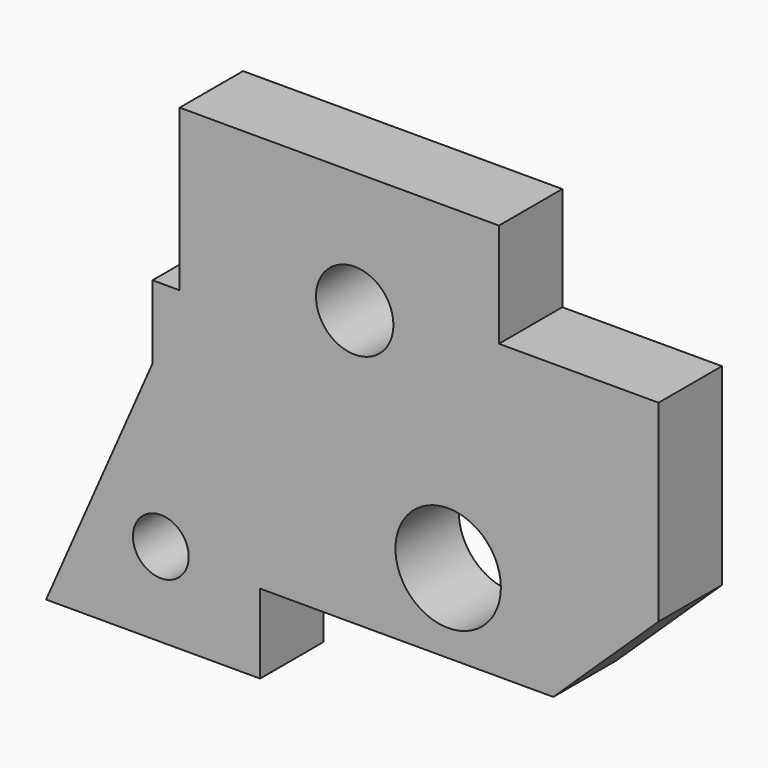
from build123d import *

# Parameters (mm, degrees)
F0_R     = 4.474653
F0_R_2   = 8.455693
F0_R_3   = 6.210572
F1_DEPTH = 12.7
F2_DEPTH = 12.7


with BuildPart() as f1:
    # F0 (on Front) → F1 (new body)
    with BuildSketch(Plane.XZ):
        Polygon((41.521776, 47.588885), (-9.669455, 47.588885), (-9.669455, 21.803673), (-14.030189, 21.803673), (-14.030189, 10.048649), (-31.093935, -28.818769), (3.223152, -28.818769), (3.223152, -16.115759), (50.243247, -16.115759), (67.117393, 0), (67.117393, 30.904336), (41.521776, 30.904336), align=None)
        with Locations((-12.693984, -15.35737)):
            Circle(F0_R, mode=Mode.SUBTRACT)
        with Locations((33.378128, -3.412749)):
            Circle(F0_R_2, mode=Mode.SUBTRACT)
        with Locations((18.390924, 28.060379)):
            Circle(F0_R_3, mode=Mode.SUBTRACT)
        Polygon((41.521776, 47.588885), (-9.669455, 47.588885), (-9.669455, 21.803673), (-14.030189, 21.803673), (-14.030189, 10.048649), (-31.093935, -28.818769), (3.223152, -28.818769), (3.223152, -16.115759), (50.243247, -16.115759), (67.117393, 0), (67.117393, 30.904336), (41.521776, 30.904336), align=None)
        with Locations((-12.693984, -15.35737)):
            Circle(F0_R, mode=Mode.SUBTRACT)
        with Locations((33.378128, -3.412749)):
            Circle(F0_R_2, mode=Mode.SUBTRACT)
        with Locations((18.390924, 28.060379)):
            Circle(F0_R_3, mode=Mode.SUBTRACT)
    extrude(amount=F1_DEPTH)

    # F0 (on Front) → F2 (join)
    with BuildSketch(Plane.XZ):
        Polygon((41.521776, 47.588885), (-9.669455, 47.588885), (-9.669455, 21.803673), (-14.030189, 21.803673), (-14.030189, 10.048649), (-31.093935, -28.818769), (3.223152, -28.818769), (3.223152, -16.115759), (50.243247, -16.115759), (67.117393, 0), (67.117393, 30.904336), (41.521776, 30.904336), align=None)
        with Locations((-12.693984, -15.35737)):
            Circle(F0_R, mode=Mode.SUBTRACT)
        with Locations((33.378128, -3.412749)):
            Circle(F0_R_2, mode=Mode.SUBTRACT)
        with Locations((18.390924, 28.060379)):
            Circle(F0_R_3, mode=Mode.SUBTRACT)
    extrude(amount=F2_DEPTH)


solid = f1.part
